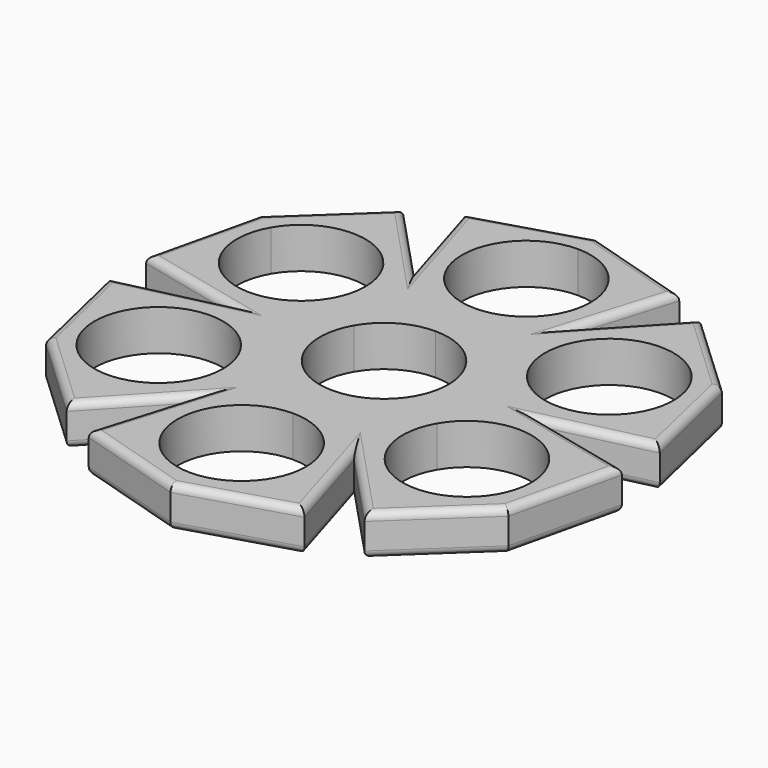
from build123d import *

# Parameters (mm, degrees)
F1_DEPTH = 6.985
F2_R     = 1.27
F3_R     = 1.27


with BuildPart() as f1:
    # F0 (on Top) → F1 (new body)
    with BuildSketch(Plane.XY):
        with BuildLine():
            Line((16.8607351888, 9.73455), (12.3232464425, 7.1148296509))
            ThreePointArc((12.3232464425, 7.1148296509), (13.2836873211, 5.1016521834), (13.9177271481, 2.9631191126))
            Line((13.9177271481, 2.9631191126), (26.6000035513, 0))
            Line((26.6000035513, 0), (43.9866338233, 4.0622562405))
            Line((43.9866338233, 4.0622562405), (39.594681461, 22.86))
            Line((39.594681461, 22.86), (35.9321734259, 20.74545))
            ThreePointArc((35.9321734259, 20.74545), (37.032166988, 18.0898306237), (37.4073543073, 15.24))
            ThreePointArc((37.4073543073, 15.24), (29.2462849311, 4.6042873193), (16.8607351888, 9.73455))
        make_face()
        with BuildLine():
            ThreePointArc((9.525, 10.5715457169), (11.0600040526, 8.9531845843), (12.3232464425, 7.1148296509))
            Line((12.3232464425, 7.1148296509), (16.8607351888, 9.73455))
            ThreePointArc((16.8607351888, 9.73455), (20.8910043073, 24.7757191185), (35.9321734259, 20.74545))
            Line((35.9321734259, 20.74545), (39.594681461, 22.86))
            Line((39.594681461, 22.86), (25.5113340126, 36.0624141977))
            Line((25.5113340126, 36.0624141977), (13.3000017757, 23.0362788162))
            Line((13.3000017757, 23.0362788162), (9.525, 10.5715457169))
        make_face()
        with BuildLine():
            Line((16.8607351888, -9.73455), (12.3232464425, -7.1148296509))
            ThreePointArc((12.3232464425, -7.1148296509), (11.0600040526, -8.9531845843), (9.525, -10.5715457169))
            Line((9.525, -10.5715457169), (13.3000017757, -23.0362788162))
            Line((13.3000017757, -23.0362788162), (25.5113340126, -36.0624141977))
            Line((25.5113340126, -36.0624141977), (39.594681461, -22.86))
            Line((39.594681461, -22.86), (35.9321734259, -20.74545))
            ThreePointArc((35.9321734259, -20.74545), (20.8910043073, -24.7757191185), (16.8607351888, -9.73455))
        make_face()
        with BuildLine():
            ThreePointArc((13.9177271481, -2.9631191126), (13.2836873211, -5.1016521834), (12.3232464425, -7.1148296509))
            Line((12.3232464425, -7.1148296509), (16.8607351888, -9.73455))
            ThreePointArc((16.8607351888, -9.73455), (29.2462849311, -4.6042873193), (37.4073543073, -15.24))
            ThreePointArc((37.4073543073, -15.24), (37.032166988, -18.0898306237), (35.9321734259, -20.74545))
            Line((35.9321734259, -20.74545), (39.594681461, -22.86))
            Line((39.594681461, -22.86), (43.9866338233, -4.0622562405))
            Line((43.9866338233, -4.0622562405), (26.6000035513, 0))
            Line((26.6000035513, 0), (13.9177271481, -2.9631191126))
        make_face()
        with BuildLine():
            ThreePointArc((-4.3927271481, 13.5346648295), (-2.2236832685, 14.0548367676), (0, 14.2296593017))
            Line((0, 14.2296593017), (0, 19.4691))
            ThreePointArc((0, 19.4691), (-11.0109, 30.48), (0, 41.4909))
            Line((0, 41.4909), (0, 45.72))
            Line((0, 45.72), (-18.4752998107, 40.1246704382))
            Line((-18.4752998107, 40.1246704382), (-13.3000017757, 23.0362788162))
            Line((-13.3000017757, 23.0362788162), (-4.3927271481, 13.5346648295))
        make_face()
        with BuildLine():
            Line((0, 19.4691), (0, 14.2296593017))
            ThreePointArc((0, 14.2296593017), (2.2236832685, 14.0548367676), (4.3927271481, 13.5346648295))
            Line((4.3927271481, 13.5346648295), (13.3000017757, 23.0362788162))
            Line((13.3000017757, 23.0362788162), (18.4752998107, 40.1246704382))
            Line((18.4752998107, 40.1246704382), (0, 45.72))
            Line((0, 45.72), (0, 41.4909))
            ThreePointArc((0, 41.4909), (7.785882057, 38.265882057), (11.0109, 30.48))
            ThreePointArc((11.0109, 30.48), (7.785882057, 22.694117943), (0, 19.4691))
        make_face()
        with BuildLine():
            Line((26.6000035513, 0), (13.9177271481, 2.9631191126))
            ThreePointArc((13.9177271481, 2.9631191126), (14.1514613983, 1.4897463328), (14.2296593017, 0))
            ThreePointArc((14.2296593017, 0), (14.1514613983, -1.4897463328), (13.9177271481, -2.9631191126))
            Line((13.9177271481, -2.9631191126), (26.6000035513, 0))
        make_face()
        with BuildLine():
            ThreePointArc((4.3927271481, 13.5346648295), (7.1148296509, 12.3232464425), (9.525, 10.5715457169))
            Line((9.525, 10.5715457169), (13.3000017757, 23.0362788162))
            Line((13.3000017757, 23.0362788162), (4.3927271481, 13.5346648295))
        make_face()
        with BuildLine():
            Line((0, -19.4691), (0, -14.2296593017))
            ThreePointArc((0, -14.2296593017), (-2.2236832685, -14.0548367676), (-4.3927271481, -13.5346648295))
            Line((-4.3927271481, -13.5346648295), (-13.3000017757, -23.0362788162))
            Line((-13.3000017757, -23.0362788162), (-18.4752998107, -40.1246704382))
            Line((-18.4752998107, -40.1246704382), (0, -45.72))
            Line((0, -45.72), (0, -41.4909))
            ThreePointArc((0, -41.4909), (-11.0109, -30.48), (0, -19.4691))
        make_face()
        with BuildLine():
            ThreePointArc((4.3927271481, -13.5346648295), (2.2236832685, -14.0548367676), (0, -14.2296593017))
            Line((0, -14.2296593017), (0, -19.4691))
            ThreePointArc((0, -19.4691), (7.785882057, -22.694117943), (11.0109, -30.48))
            ThreePointArc((11.0109, -30.48), (7.785882057, -38.265882057), (0, -41.4909))
            Line((0, -41.4909), (0, -45.72))
            Line((0, -45.72), (18.4752998107, -40.1246704382))
            Line((18.4752998107, -40.1246704382), (13.3000017757, -23.0362788162))
            Line((13.3000017757, -23.0362788162), (4.3927271481, -13.5346648295))
        make_face()
        with BuildLine():
            Line((13.3000017757, -23.0362788162), (9.525, -10.5715457169))
            ThreePointArc((9.525, -10.5715457169), (7.1148296509, -12.3232464425), (4.3927271481, -13.5346648295))
            Line((4.3927271481, -13.5346648295), (13.3000017757, -23.0362788162))
        make_face()
        with BuildLine():
            Line((-16.8607351888, 9.73455), (-12.3232464425, 7.1148296509))
            ThreePointArc((-12.3232464425, 7.1148296509), (-11.0600040526, 8.9531845843), (-9.525, 10.5715457169))
            Line((-9.525, 10.5715457169), (-13.3000017757, 23.0362788162))
            Line((-13.3000017757, 23.0362788162), (-25.5113340126, 36.0624141977))
            Line((-25.5113340126, 36.0624141977), (-39.594681461, 22.86))
            Line((-39.594681461, 22.86), (-35.9321734259, 20.74545))
            ThreePointArc((-35.9321734259, 20.74545), (-23.5466236836, 25.8757126807), (-15.3855543073, 15.24))
            ThreePointArc((-15.3855543073, 15.24), (-15.7607416267, 12.3901693763), (-16.8607351888, 9.73455))
        make_face()
        with BuildLine():
            ThreePointArc((-13.9177271481, 2.9631191126), (-13.2836873211, 5.1016521834), (-12.3232464425, 7.1148296509))
            Line((-12.3232464425, 7.1148296509), (-16.8607351888, 9.73455))
            ThreePointArc((-16.8607351888, 9.73455), (-31.9019043073, 5.7042808815), (-35.9321734259, 20.74545))
            Line((-35.9321734259, 20.74545), (-39.594681461, 22.86))
            Line((-39.594681461, 22.86), (-43.9866338233, 4.0622562405))
            Line((-43.9866338233, 4.0622562405), (-26.6000035513, 0))
            Line((-26.6000035513, 0), (-13.9177271481, 2.9631191126))
        make_face()
        with BuildLine():
            ThreePointArc((-9.525, 10.5715457169), (-7.1148296509, 12.3232464425), (-4.3927271481, 13.5346648295))
            Line((-4.3927271481, 13.5346648295), (-13.3000017757, 23.0362788162))
            Line((-13.3000017757, 23.0362788162), (-9.525, 10.5715457169))
        make_face()
        with BuildLine():
            Line((-16.8607351888, -9.73455), (-12.3232464425, -7.1148296509))
            ThreePointArc((-12.3232464425, -7.1148296509), (-13.2836873211, -5.1016521834), (-13.9177271481, -2.9631191126))
            Line((-13.9177271481, -2.9631191126), (-26.6000035513, 0))
            Line((-26.6000035513, 0), (-43.9866338233, -4.0622562405))
            Line((-43.9866338233, -4.0622562405), (-39.594681461, -22.86))
            Line((-39.594681461, -22.86), (-35.9321734259, -20.74545))
            ThreePointArc((-35.9321734259, -20.74545), (-31.9019043073, -5.7042808815), (-16.8607351888, -9.73455))
        make_face()
        with BuildLine():
            ThreePointArc((-9.525, -10.5715457169), (-11.0600040526, -8.9531845843), (-12.3232464425, -7.1148296509))
            Line((-12.3232464425, -7.1148296509), (-16.8607351888, -9.73455))
            ThreePointArc((-16.8607351888, -9.73455), (-15.7607416267, -12.3901693763), (-15.3855543073, -15.24))
            ThreePointArc((-15.3855543073, -15.24), (-23.5466236836, -25.8757126807), (-35.9321734259, -20.74545))
            Line((-35.9321734259, -20.74545), (-39.594681461, -22.86))
            Line((-39.594681461, -22.86), (-25.5113340126, -36.0624141977))
            Line((-25.5113340126, -36.0624141977), (-13.3000017757, -23.0362788162))
            Line((-13.3000017757, -23.0362788162), (-9.525, -10.5715457169))
        make_face()
        with BuildLine():
            Line((-13.3000017757, -23.0362788162), (-4.3927271481, -13.5346648295))
            ThreePointArc((-4.3927271481, -13.5346648295), (-7.1148296509, -12.3232464425), (-9.525, -10.5715457169))
            Line((-9.525, -10.5715457169), (-13.3000017757, -23.0362788162))
        make_face()
        with BuildLine():
            ThreePointArc((-13.9177271481, -2.9631191126), (-14.2296593017, 0), (-13.9177271481, 2.9631191126))
            Line((-13.9177271481, 2.9631191126), (-26.6000035513, 0))
            Line((-26.6000035513, 0), (-13.9177271481, -2.9631191126))
        make_face()
        with BuildLine():
            ThreePointArc((-9.5357191185, -5.50545), (-11.0109, 0), (-9.5357191185, 5.50545))
            Line((-9.5357191185, 5.50545), (-12.3232464425, 7.1148296509))
            ThreePointArc((-12.3232464425, 7.1148296509), (-13.2836873211, 5.1016521834), (-13.9177271481, 2.9631191126))
            ThreePointArc((-13.9177271481, 2.9631191126), (-14.2296593017, 0), (-13.9177271481, -2.9631191126))
            ThreePointArc((-13.9177271481, -2.9631191126), (-13.2836873211, -5.1016521834), (-12.3232464425, -7.1148296509))
            Line((-12.3232464425, -7.1148296509), (-9.5357191185, -5.50545))
        make_face()
        with BuildLine():
            ThreePointArc((-9.5357191185, 5.50545), (-5.50545, 9.5357191185), (0, 11.0109))
            Line((0, 11.0109), (0, 14.2296593017))
            ThreePointArc((0, 14.2296593017), (-2.2236832685, 14.0548367676), (-4.3927271481, 13.5346648295))
            ThreePointArc((-4.3927271481, 13.5346648295), (-7.1148296509, 12.3232464425), (-9.525, 10.5715457169))
            ThreePointArc((-9.525, 10.5715457169), (-11.0600040526, 8.9531845843), (-12.3232464425, 7.1148296509))
            Line((-12.3232464425, 7.1148296509), (-9.5357191185, 5.50545))
        make_face()
        with BuildLine():
            ThreePointArc((0, 11.0109), (5.50545, 9.5357191185), (9.5357191185, 5.50545))
            Line((9.5357191185, 5.50545), (12.3232464425, 7.1148296509))
            ThreePointArc((12.3232464425, 7.1148296509), (11.0600040526, 8.9531845843), (9.525, 10.5715457169))
            ThreePointArc((9.525, 10.5715457169), (7.1148296509, 12.3232464425), (4.3927271481, 13.5346648295))
            ThreePointArc((4.3927271481, 13.5346648295), (2.2236832685, 14.0548367676), (0, 14.2296593017))
            Line((0, 14.2296593017), (0, 11.0109))
        make_face()
        with BuildLine():
            ThreePointArc((9.5357191185, 5.50545), (10.6357126807, 2.8498306237), (11.0109, 0))
            ThreePointArc((11.0109, 0), (10.6357126807, -2.8498306237), (9.5357191185, -5.50545))
            Line((9.5357191185, -5.50545), (12.3232464425, -7.1148296509))
            ThreePointArc((12.3232464425, -7.1148296509), (13.2836873211, -5.1016521834), (13.9177271481, -2.9631191126))
            ThreePointArc((13.9177271481, -2.9631191126), (14.1514613983, -1.4897463328), (14.2296593017, 0))
            ThreePointArc((14.2296593017, 0), (14.1514613983, 1.4897463328), (13.9177271481, 2.9631191126))
            ThreePointArc((13.9177271481, 2.9631191126), (13.2836873211, 5.1016521834), (12.3232464425, 7.1148296509))
            Line((12.3232464425, 7.1148296509), (9.5357191185, 5.50545))
        make_face()
        with BuildLine():
            Line((12.3232464425, -7.1148296509), (9.5357191185, -5.50545))
            ThreePointArc((9.5357191185, -5.50545), (5.50545, -9.5357191185), (0, -11.0109))
            Line((0, -11.0109), (0, -14.2296593017))
            ThreePointArc((0, -14.2296593017), (2.2236832685, -14.0548367676), (4.3927271481, -13.5346648295))
            ThreePointArc((4.3927271481, -13.5346648295), (7.1148296509, -12.3232464425), (9.525, -10.5715457169))
            ThreePointArc((9.525, -10.5715457169), (11.0600040526, -8.9531845843), (12.3232464425, -7.1148296509))
        make_face()
        with BuildLine():
            Line((0, -14.2296593017), (0, -11.0109))
            ThreePointArc((0, -11.0109), (-5.50545, -9.5357191185), (-9.5357191185, -5.50545))
            Line((-9.5357191185, -5.50545), (-12.3232464425, -7.1148296509))
            ThreePointArc((-12.3232464425, -7.1148296509), (-11.0600040526, -8.9531845843), (-9.525, -10.5715457169))
            ThreePointArc((-9.525, -10.5715457169), (-7.1148296509, -12.3232464425), (-4.3927271481, -13.5346648295))
            ThreePointArc((-4.3927271481, -13.5346648295), (-2.2236832685, -14.0548367676), (0, -14.2296593017))
        make_face()
    extrude(amount=F1_DEPTH)

    # F2
    f2_edges = [f1.edges().sort_by_distance(p)[0] for p in [
        (9.23765, 42.922335, 6.985),
        (15.887651, 31.580475, 6.985),
        (19.405668, 29.549347, 6.985),
        (32.553008, 29.461207, 6.985),
        (41.790658, 13.461128, 6.985),
        (35.293319, 2.031128, 6.985),
        (35.293319, -2.031128, 6.985),
        (19.405668, -29.549347, 6.985),
        (15.887651, -31.580475, 6.985),
        (-15.887651, -31.580475, 6.985),
        (-19.405668, -29.549347, 6.985),
        (-35.293319, -2.031128, 6.985),
        (-35.293319, 2.031128, 6.985),
        (-19.405668, 29.549347, 6.985),
        (-15.887651, 31.580475, 6.985),
        (-9.23765, 42.922335, 6.985),
        (-32.553008, 29.461207, 6.985),
        (-41.790658, 13.461128, 6.985),
        (-41.790658, -13.461128, 6.985),
        (-32.553008, -29.461207, 6.985),
        (-9.23765, -42.922335, 6.985),
        (9.23765, -42.922335, 6.985),
        (32.553008, -29.461207, 6.985),
        (41.790658, -13.461128, 6.985),
    ]]
    fillet(f2_edges, radius=F2_R)

    # F3
    f3_edges = [f1.edges().sort_by_distance(p)[0] for p in [
        (-32.553008, -29.461207, 0),
        (-41.790658, -13.461128, 0),
        (-35.293319, -2.031128, 0),
        (-35.293319, 2.031128, 0),
        (-41.790658, 13.461128, 0),
        (-32.553008, 29.461207, 0),
        (-19.405668, 29.549347, 0),
        (-15.887651, 31.580475, 0),
        (15.887651, 31.580475, 0),
        (9.23765, 42.922335, 0),
        (-9.23765, 42.922335, 0),
        (19.405668, 29.549347, 0),
        (32.553008, 29.461207, 0),
        (41.790658, 13.461128, 0),
        (35.293319, -2.031128, 0),
        (35.293319, 2.031128, 0),
        (41.790658, -13.461128, 0),
        (32.553008, -29.461207, 0),
        (9.23765, -42.922335, 0),
        (-9.23765, -42.922335, 0),
        (-15.887651, -31.580475, 0),
        (-19.405668, -29.549347, 0),
        (15.887651, -31.580475, 0),
        (19.405668, -29.549347, 0),
    ]]
    fillet(f3_edges, radius=F3_R)


solid = f1.part
